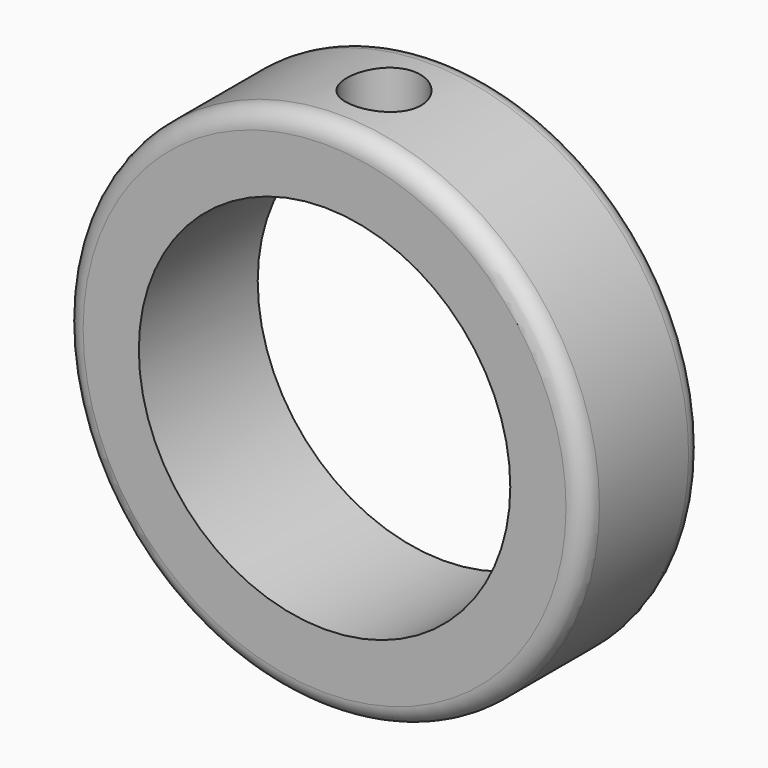
from build123d import *

# Parameters (mm, degrees)
F0_R     = 22.225
F0_R_2   = 15.875
F1_DEPTH = 12.7
F3_R     = 3.175
F4_DEPTH = 12.7
F5_R     = 1.5875


with BuildPart() as f1:
    # F0 (on Front) → F1 (new body)
    with BuildSketch(Plane.XZ):
        Circle(F0_R)
        Circle(F0_R_2, mode=Mode.SUBTRACT)
    extrude(amount=F1_DEPTH)

    # F3 (on offset) → F4 (cut)
    with BuildSketch(Plane.XY.offset(23.368)):
        with Locations((0, -6.35)):
            Circle(F3_R)
    extrude(amount=-F4_DEPTH, mode=Mode.SUBTRACT)

    # F5
    f5_edges = [f1.edges().sort_by_distance(p)[0] for p in [
        (-22.225, -12.7, 0),
        (-22.225, 0, 0),
    ]]
    fillet(f5_edges, radius=F5_R)


solid = f1.part
